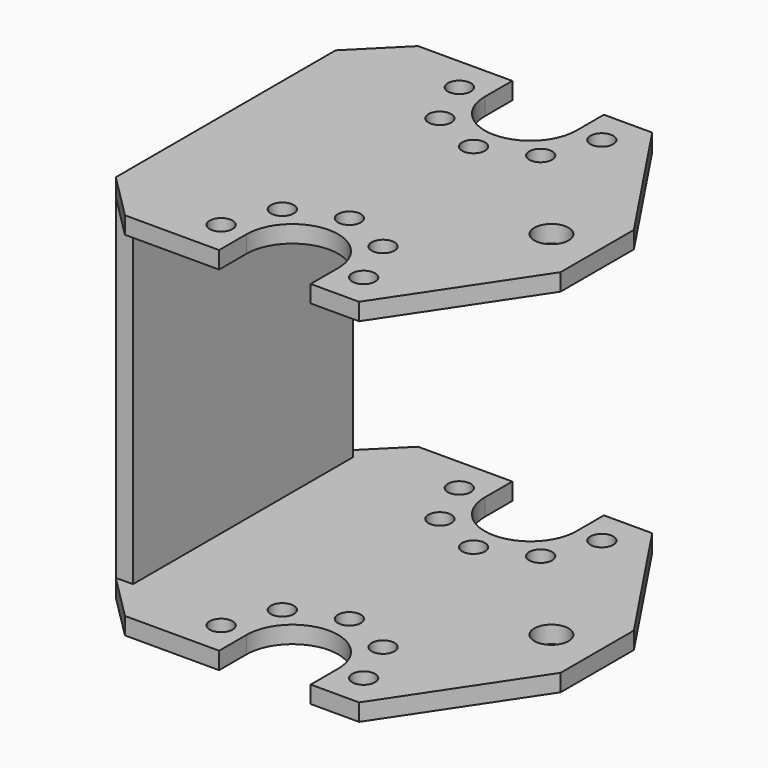
from build123d import *

# Parameters (mm, degrees)
F0_R     = 1
F0_R_2   = 1.5
F1_DEPTH = 1.5
F3_DEPTH = 1.5
F4_W     = 1.5
F4_H     = 24
F5_DEPTH = 14.65


with BuildPart() as f1:
    # F0 (on Top) → F1 (new body)
    with BuildSketch(Plane.XY):
        with BuildLine():
            Line((-4, 16), (-16.22254, 16))
            Line((-16.22254, 16), (-16.22254, -16))
            Line((-16.22254, -16), (-4, -16))
            Line((-4, -16), (-4, -13))
            ThreePointArc((-4, -13), (0, -9), (4, -13))
            Line((4, -13), (4, -16))
            Line((4, -16), (16.22254, -16))
            Line((16.22254, -16), (16.22254, 16))
            Line((16.22254, 16), (4, 16))
            Line((4, 16), (4, 13))
            ThreePointArc((4, 13), (0, 9), (-4, 13))
            Line((-4, 13), (-4, 16))
        make_face()
        with Locations((-6.22254, -13)):
            Circle(F0_R, mode=Mode.SUBTRACT)
        with Locations((-4.4, -8.6)):
            Circle(F0_R, mode=Mode.SUBTRACT)
        with Locations((6.22254, -13)):
            Circle(F0_R, mode=Mode.SUBTRACT)
        with Locations((4.4, -8.6)):
            Circle(F0_R, mode=Mode.SUBTRACT)
        with Locations((0, -6.77746)):
            Circle(F0_R, mode=Mode.SUBTRACT)
        with Locations((-4.4, 8.6)):
            Circle(F0_R, mode=Mode.SUBTRACT)
        with Locations((-6.22254, 13)):
            Circle(F0_R, mode=Mode.SUBTRACT)
        with Locations((0, 6.77746)):
            Circle(F0_R, mode=Mode.SUBTRACT)
        with Locations((12.22254, 0)):
            Circle(F0_R_2, mode=Mode.SUBTRACT)
        with Locations((4.4, 8.6)):
            Circle(F0_R, mode=Mode.SUBTRACT)
        with Locations((6.22254, 13)):
            Circle(F0_R, mode=Mode.SUBTRACT)
    extrude(amount=F1_DEPTH)

    # F2 (on face) → F3 (cut, through all)
    with BuildSketch(Plane.XY.offset(1.5)):
        Polygon((16.22254, 16), (8.22254, 16), (16.22254, 4), align=None)
        Polygon((8.22254, -16), (16.22254, -16), (16.22254, -4), align=None)
        Polygon((-12.22254, 16), (-16.22254, 16), (-16.22254, 12), align=None)
        Polygon((-16.22254, -16), (-12.22254, -16), (-16.22254, -12), align=None)
    extrude(amount=-F3_DEPTH, mode=Mode.SUBTRACT)

    # F4 (on face) → F5 (join)
    with BuildSketch(Plane(origin=(0, 0, 0), x_dir=(1, 0, 0), z_dir=(0, 0, -1))):
        with Locations((-15.47254, 0)):
            Rectangle(F4_W, F4_H)
    extrude(amount=F5_DEPTH)

    # F7: F1 across plane


with BuildPart() as f1_1:
    add(f1.part)
    add(f1.part.mirror(Plane.XY.offset(-14.65)))


solid = f1_1.part
